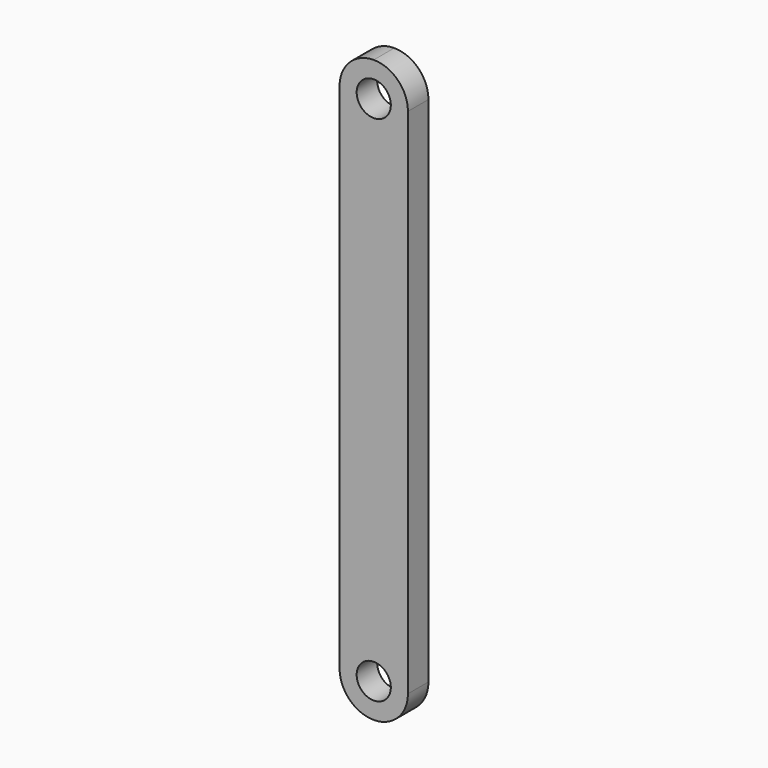
from build123d import *

# Parameters (mm, degrees)
F0_R     = 50.8
F1_DEPTH = 76.2


with BuildPart() as f1:
    # F0 (on Front) → F1 (new body)
    with BuildSketch(Plane.XZ):
        with BuildLine():
            Line((-101.6, 1524), (-101.6, 0))
            ThreePointArc((-101.6, 0), (-71.842049, -71.842049), (0, -101.6))
            ThreePointArc((0, -101.6), (71.842049, -71.842049), (101.6, 0))
            Line((101.6, 0), (101.6, 1524))
            ThreePointArc((101.6, 1524), (71.842049, 1595.842049), (0, 1625.6))
            ThreePointArc((0, 1625.6), (-71.842049, 1595.842049), (-101.6, 1524))
        make_face()
        Circle(F0_R, mode=Mode.SUBTRACT)
        with Locations((0, 1524)):
            Circle(F0_R, mode=Mode.SUBTRACT)
    extrude(amount=F1_DEPTH)


solid = f1.part
